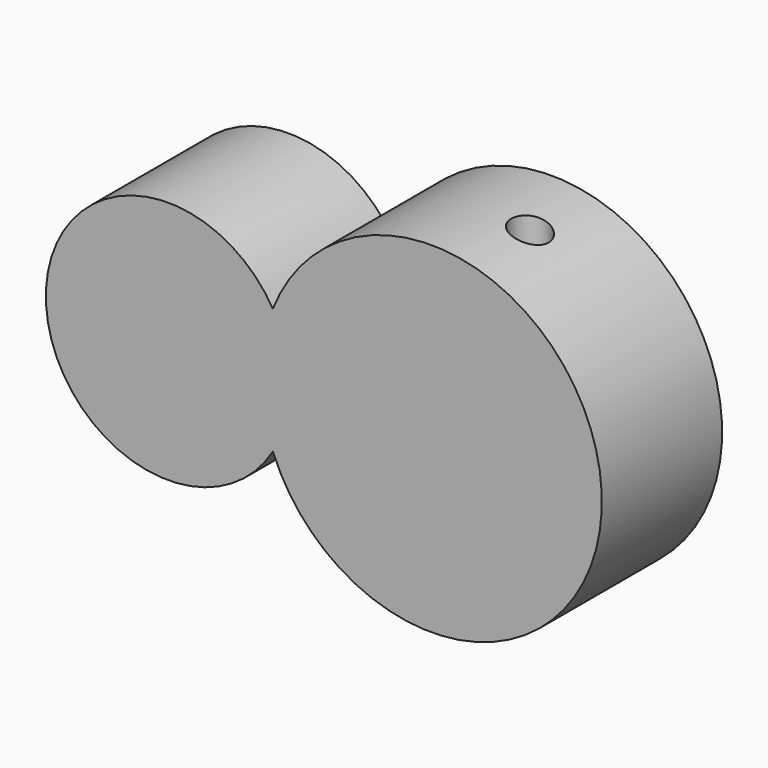
from build123d import *

# Parameters (mm, degrees)
F1_DEPTH = 12.7
F3_R     = 3.175
F4_DEPTH = 116.84949


with BuildPart() as f1:
    # F0 (on Front) → F1 (new body, symmetric)
    with BuildSketch(Plane.XZ):
        with BuildLine():
            ThreePointArc((-26.766025, 10.620996), (-65.108324, 0), (-26.766025, -10.620996))
            ThreePointArc((-26.766025, -10.620996), (28.796278, 0), (-26.766025, 10.620996))
        make_face()
    extrude(amount=F1_DEPTH, both=True)


with BuildPart() as f4:
    # F3 (on offset) → F4 (new body)
    with BuildSketch(Plane.XY.offset(50.8)):
        with Locations((6.488414, 0)):
            Circle(F3_R)
    extrude(amount=-F4_DEPTH)


with BuildPart() as f1_1:
    add(f1.part)

    # F5: cut F4
    add(f4.part, mode=Mode.SUBTRACT)


solid = f1_1.part
